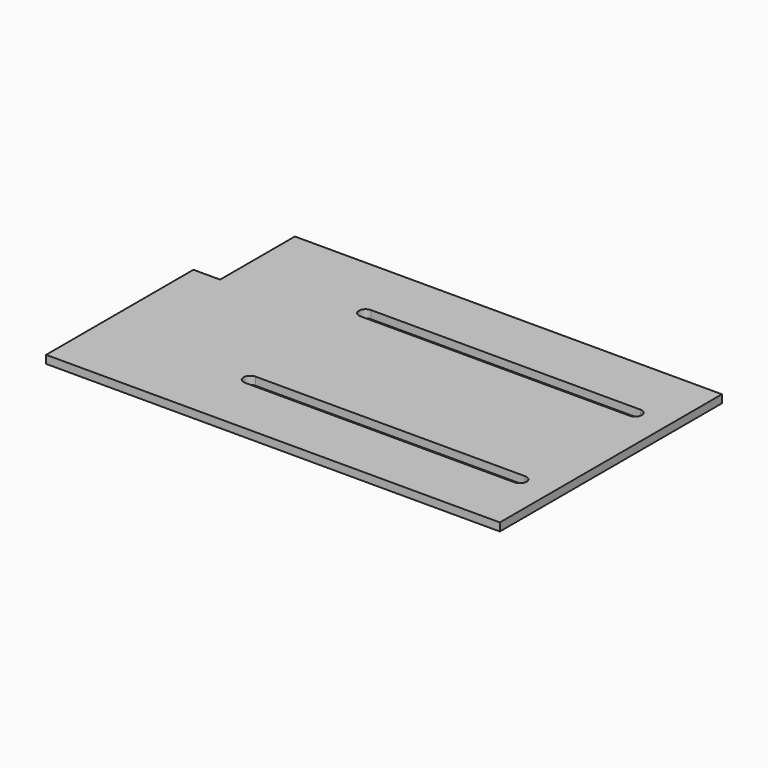
from build123d import *

# Parameters (mm, degrees)
F1_DEPTH = 3


with BuildPart() as f1:
    # F0 (on Top) → F1 (new body)
    with BuildSketch(Plane.XY):
        Polygon((85, 52), (-75, 52), (-75, 17), (-85, 17), (-85, -52), (85, -52), align=None)
        with BuildLine():
            ThreePointArc((72.5, -24.5), (75, -27), (72.5, -29.5))
            Line((72.5, -29.5), (-28.5, -29.5))
            ThreePointArc((-28.5, -29.5), (-31, -27), (-28.5, -24.5))
            Line((-28.5, -24.5), (72.5, -24.5))
        make_face(mode=Mode.SUBTRACT)
        with BuildLine():
            Line((-28.5, 29.5), (72.5, 29.5))
            ThreePointArc((72.5, 29.5), (75, 27), (72.5, 24.5))
            Line((72.5, 24.5), (-28.5, 24.5))
            ThreePointArc((-28.5, 24.5), (-31, 27), (-28.5, 29.5))
        make_face(mode=Mode.SUBTRACT)
    extrude(amount=F1_DEPTH)


solid = f1.part
